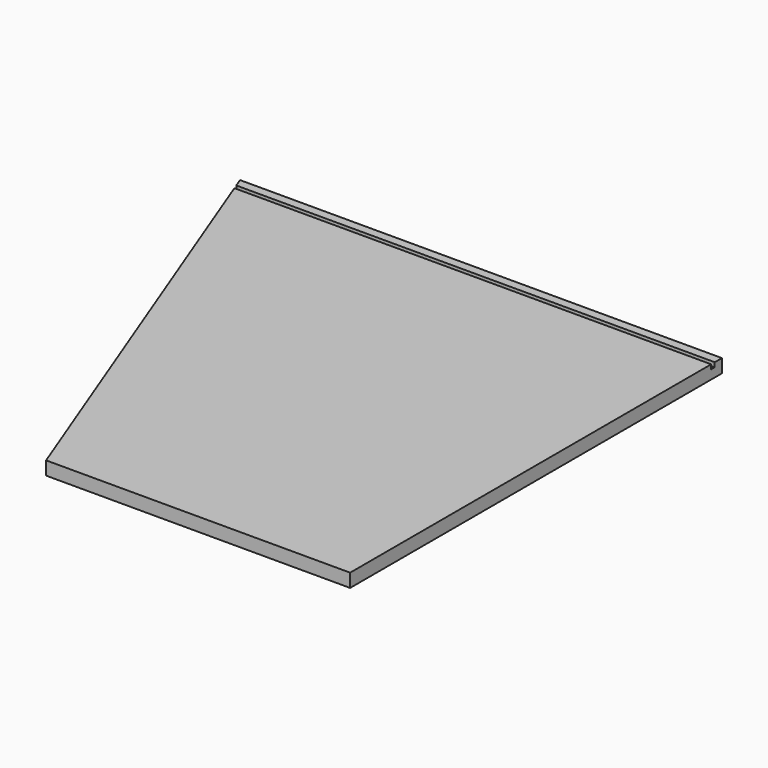
from build123d import *

# Parameters (mm, degrees)
F1_DEPTH = 18
F2_W     = 640.407225
F2_H     = 6
F3_DEPTH = 6


with BuildPart() as f1:
    # F0 (on Top) → F1 (new body)
    with BuildSketch(Plane.XY):
        Polygon((322.5, -311), (322.5, 311), (-322.5, 311), (-84.441184, -311), align=None)
    extrude(amount=F1_DEPTH)

    # F2 (on face) → F3 (cut)
    with BuildSketch(Plane.XY.offset(18)):
        with Locations((2.296388, 296)):
            Rectangle(F2_W, F2_H)
    extrude(amount=-F3_DEPTH, mode=Mode.SUBTRACT)


solid = f1.part
